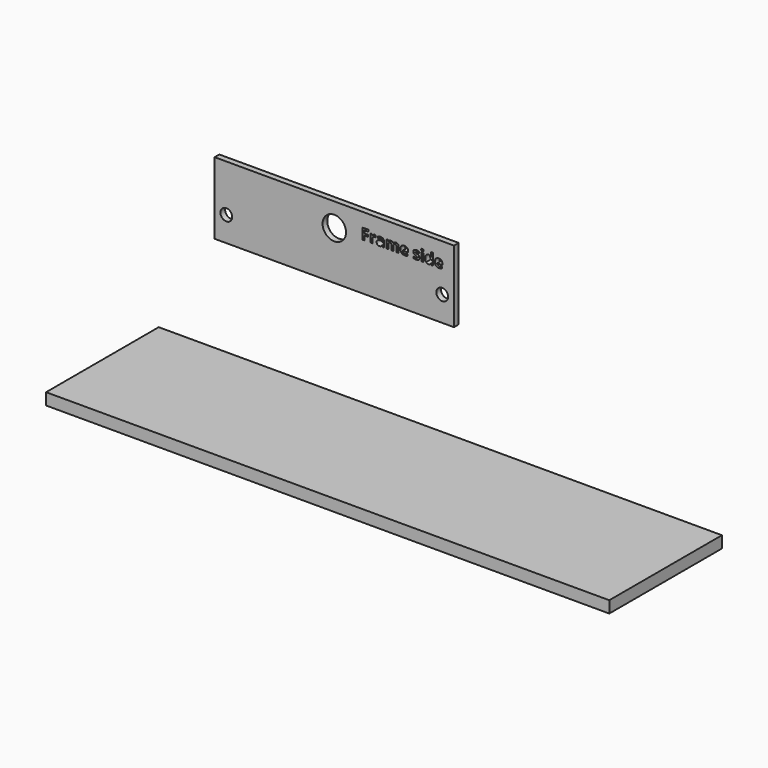
from build123d import *

# Parameters (mm, degrees)
F0_W     = 259.08
F0_H     = 77.7999210843
F0_R     = 6.35
F0_R_2   = 12.7
F0_W_2   = 2.4221705349
F0_H_2   = 8.8804447522
F1_DEPTH = 6.35
F2_W     = 609.6
F2_H     = 12.7
F3_DEPTH = 152.4


with BuildPart() as f1:
    # F0 (on Front) → F1 (new body)
    with BuildSketch(Plane.XZ):
        with Locations((35.36564756, 38.8999605422)):
            Rectangle(F0_W, F0_H)
        with Locations((-81.47435244, 26.9999210843)):
            Circle(F0_R, mode=Mode.SUBTRACT)
        with Locations((152.20564756, 26.9999210843)):
            Circle(F0_R, mode=Mode.SUBTRACT)
        with Locations((35.36564756, 52.3999210843)):
            Circle(F0_R_2, mode=Mode.SUBTRACT)
        with BuildLine():
            add(Edge.make_bspline(
                [(77.8315664183, 59.8184322771), (78.5343262849, 60.2746543243), (79.3603550612, 60.2746543243)],
                knots=[0, 0, 0, 1, 1, 1], degree=2))
            add(Edge.make_bspline(
                [(79.3603550612, 60.2746543243), (79.8534307, 60.2746543243), (80.1787589565, 60.2034887682)],
                knots=[0, 0, 0, 1, 1, 1], degree=2))
            Line((80.1787589565, 60.2034887682), (79.9957618122, 57.9338158536))
            add(Edge.make_bspline(
                [(79.9957618122, 57.9338158536), (79.7009330797, 58.0126062907), (79.2815646241, 58.0126062907)],
                knots=[0, 0, 0, 1, 1, 1], degree=2))
            add(Edge.make_bspline(
                [(79.2815646241, 58.0126062907), (78.1225827102, 58.0126062907), (77.4744678242, 57.4165947583)],
                knots=[0, 0, 0, 1, 1, 1], degree=2))
            add(Edge.make_bspline(
                [(77.4744678242, 57.4165947583), (76.8263529381, 56.8205832258), (76.8263529381, 55.7480166301)],
                knots=[0, 0, 0, 1, 1, 1], degree=2))
            Line((76.8263529381, 55.7480166301), (76.8263529381, 51.2290038168))
            Line((76.8263529381, 51.2290038168), (74.4041824033, 51.2290038168))
            Line((74.4041824033, 51.2290038168), (74.4041824033, 60.1094485691))
            Line((74.4041824033, 60.1094485691), (76.2392371002, 60.1094485691))
            Line((76.2392371002, 60.1094485691), (76.5976065078, 58.6149718907))
            Line((76.5976065078, 58.6149718907), (76.71452135, 58.6149718907))
            add(Edge.make_bspline(
                [(76.71452135, 58.6149718907), (77.1288065516, 59.3622102299), (77.8315664183, 59.8184322771)],
                knots=[0, 0, 0, 1, 1, 1], degree=2))
        make_face(mode=Mode.SUBTRACT)
        Polygon((68.0882392982, 55.8191821862), (68.0882392982, 51.2290038168), (65.6660687633, 51.2290038168), (65.6660687633, 62.8416975984), (72.3225898869, 62.8416975984), (72.3225898869, 60.8236457572), (68.0882392982, 60.8236457572), (68.0882392982, 57.8296091464), (72.0277611545, 57.8296091464), (72.0277611545, 55.8191821862), align=None, mode=Mode.SUBTRACT)
        with BuildLine():
            Line((89.1202027568, 51.2290038168), (87.4300207991, 51.2290038168))
            Line((87.4300207991, 51.2290038168), (86.9598198034, 52.4362766438))
            Line((86.9598198034, 52.4362766438), (86.8962791283, 52.4362766438))
            add(Edge.make_bspline(
                [(86.8962791283, 52.4362766438), (86.2862886473, 51.6661636615), (85.6381737613, 51.3675224886)],
                knots=[0, 0, 0, 1, 1, 1], degree=2))
            add(Edge.make_bspline(
                [(85.6381737613, 51.3675224886), (84.9900588752, 51.0688813156), (83.9505334306, 51.0688813156)],
                knots=[0, 0, 0, 1, 1, 1], degree=2))
            add(Edge.make_bspline(
                [(83.9505334306, 51.0688813156), (82.6720950475, 51.0688813156), (81.9375648433, 51.8008698928)],
                knots=[0, 0, 0, 1, 1, 1], degree=2))
            add(Edge.make_bspline(
                [(81.9375648433, 51.8008698928), (81.2030346392, 52.5328584699), (81.2030346392, 53.8824624091)],
                knots=[0, 0, 0, 1, 1, 1], degree=2))
            add(Edge.make_bspline(
                [(81.2030346392, 53.8824624091), (81.2030346392, 55.2956070234), (82.1917275437, 55.9665965524)],
                knots=[0, 0, 0, 1, 1, 1], degree=2))
            add(Edge.make_bspline(
                [(82.1917275437, 55.9665965524), (83.1804204483, 56.6375860815), (85.1730560195, 56.7087516376)],
                knots=[0, 0, 0, 1, 1, 1], degree=2))
            Line((85.1730560195, 56.7087516376), (86.715823611, 56.7570425507))
            Line((86.715823611, 56.7570425507), (86.715823611, 57.1459114823))
            add(Edge.make_bspline(
                [(86.715823611, 57.1459114823), (86.715823611, 58.4955154215), (85.3331785208, 58.4955154215)],
                knots=[0, 0, 0, 1, 1, 1], degree=2))
            add(Edge.make_bspline(
                [(85.3331785208, 58.4955154215), (84.2682368061, 58.4955154215), (82.8296759218, 57.8524837894)],
                knots=[0, 0, 0, 1, 1, 1], degree=2))
            Line((82.8296759218, 57.8524837894), (82.0290634155, 59.4892915801))
            add(Edge.make_bspline(
                [(82.0290634155, 59.4892915801), (83.5616644989, 60.2924457134), (85.4272187199, 60.2924457134)],
                knots=[0, 0, 0, 1, 1, 1], degree=2))
            add(Edge.make_bspline(
                [(85.4272187199, 60.2924457134), (87.2139825038, 60.2924457134), (88.1670926303, 59.5134370366)],
                knots=[0, 0, 0, 1, 1, 1], degree=2))
            add(Edge.make_bspline(
                [(88.1670926303, 59.5134370366), (89.1202027568, 58.7344283599), (89.1202027568, 57.1459114823)],
                knots=[0, 0, 0, 1, 1, 1], degree=2))
            Line((89.1202027568, 57.1459114823), (89.1202027568, 51.2290038168))
        make_face(mode=Mode.SUBTRACT)
        with BuildLine():
            Line((99.5662897436, 55.684475955), (99.5662897436, 51.2290038168))
            Line((99.5662897436, 51.2290038168), (97.1441192087, 51.2290038168))
            Line((97.1441192087, 51.2290038168), (97.1441192087, 56.4164645321))
            add(Edge.make_bspline(
                [(97.1441192087, 56.4164645321), (97.1441192087, 57.3771995397), (96.8226033927, 57.8575670435)],
                knots=[0, 0, 0, 1, 1, 1], degree=2))
            add(Edge.make_bspline(
                [(96.8226033927, 57.8575670435), (96.5010875766, 58.3379345472), (95.8097650315, 58.3379345472)],
                knots=[0, 0, 0, 1, 1, 1], degree=2))
            add(Edge.make_bspline(
                [(95.8097650315, 58.3379345472), (94.8795295481, 58.3379345472), (94.4588902789, 57.6542368831)],
                knots=[0, 0, 0, 1, 1, 1], degree=2))
            add(Edge.make_bspline(
                [(94.4588902789, 57.6542368831), (94.0382510097, 56.970539219), (94.0382510097, 55.4074386115)],
                knots=[0, 0, 0, 1, 1, 1], degree=2))
            Line((94.0382510097, 55.4074386115), (94.0382510097, 51.2290038168))
            Line((94.0382510097, 51.2290038168), (91.6160804748, 51.2290038168))
            Line((91.6160804748, 51.2290038168), (91.6160804748, 60.1094485691))
            Line((91.6160804748, 60.1094485691), (93.4663849338, 60.1094485691))
            Line((93.4663849338, 60.1094485691), (93.7917131903, 58.9733412982))
            Line((93.7917131903, 58.9733412982), (93.9264194215, 58.9733412982))
            add(Edge.make_bspline(
                [(93.9264194215, 58.9733412982), (94.2847888291, 59.5858734062), (94.9595907987, 59.9302638653)],
                knots=[0, 0, 0, 1, 1, 1], degree=2))
            add(Edge.make_bspline(
                [(94.9595907987, 59.9302638653), (95.6343927683, 60.2746543243), (96.5087124577, 60.2746543243)],
                knots=[0, 0, 0, 1, 1, 1], degree=2))
            add(Edge.make_bspline(
                [(96.5087124577, 60.2746543243), (98.5013480289, 60.2746543243), (99.210461963, 58.9733412982)],
                knots=[0, 0, 0, 1, 1, 1], degree=2))
            Line((99.210461963, 58.9733412982), (99.4239586313, 58.9733412982))
            add(Edge.make_bspline(
                [(99.4239586313, 58.9733412982), (99.7823280389, 59.5934982872), (100.476192211, 59.9340763058)],
                knots=[0, 0, 0, 1, 1, 1], degree=2))
            add(Edge.make_bspline(
                [(100.476192211, 59.9340763058), (101.1700563831, 60.2746543243), (102.0443760725, 60.2746543243)],
                knots=[0, 0, 0, 1, 1, 1], degree=2))
            add(Edge.make_bspline(
                [(102.0443760725, 60.2746543243), (103.5541025129, 60.2746543243), (104.3280279357, 59.5007289016)],
                knots=[0, 0, 0, 1, 1, 1], degree=2))
            add(Edge.make_bspline(
                [(104.3280279357, 59.5007289016), (105.1019533584, 58.7268034788), (105.1019533584, 57.0188301321)],
                knots=[0, 0, 0, 1, 1, 1], degree=2))
            Line((105.1019533584, 57.0188301321), (105.1019533584, 51.2290038168))
            Line((105.1019533584, 51.2290038168), (102.6721579425, 51.2290038168))
            Line((102.6721579425, 51.2290038168), (102.6721579425, 56.4164645321))
            add(Edge.make_bspline(
                [(102.6721579425, 56.4164645321), (102.6721579425, 57.3771995397), (102.3506421265, 57.8575670435)],
                knots=[0, 0, 0, 1, 1, 1], degree=2))
            add(Edge.make_bspline(
                [(102.3506421265, 57.8575670435), (102.0291263105, 58.3379345472), (101.3378037654, 58.3379345472)],
                knots=[0, 0, 0, 1, 1, 1], degree=2))
            add(Edge.make_bspline(
                [(101.3378037654, 58.3379345472), (100.448234314, 58.3379345472), (100.0072620288, 57.7025277962)],
                knots=[0, 0, 0, 1, 1, 1], degree=2))
            add(Edge.make_bspline(
                [(100.0072620288, 57.7025277962), (99.5662897436, 57.0671210452), (99.5662897436, 55.684475955)],
                knots=[0, 0, 0, 1, 1, 1], degree=2))
        make_face(mode=Mode.SUBTRACT)
        with BuildLine():
            add(Edge.make_bspline(
                [(113.3698660027, 51.2239205628), (112.6480439335, 51.0688813156), (111.6059768618, 51.0688813156)],
                knots=[0, 0, 0, 1, 1, 1], degree=2))
            add(Edge.make_bspline(
                [(111.6059768618, 51.0688813156), (109.4633852974, 51.0688813156), (108.2561124705, 52.2532794995)],
                knots=[0, 0, 0, 1, 1, 1], degree=2))
            add(Edge.make_bspline(
                [(108.2561124705, 52.2532794995), (107.0488396435, 53.4376776834), (107.0488396435, 55.6056855179)],
                knots=[0, 0, 0, 1, 1, 1], degree=2))
            add(Edge.make_bspline(
                [(107.0488396435, 55.6056855179), (107.0488396435, 57.8372340274), (108.1646138983, 59.0559441759)],
                knots=[0, 0, 0, 1, 1, 1], degree=2))
            add(Edge.make_bspline(
                [(108.1646138983, 59.0559441759), (109.2803881531, 60.2746543243), (111.2501490813, 60.2746543243)],
                knots=[0, 0, 0, 1, 1, 1], degree=2))
            add(Edge.make_bspline(
                [(111.2501490813, 60.2746543243), (113.1309530643, 60.2746543243), (114.1793742035, 59.2033585421)],
                knots=[0, 0, 0, 1, 1, 1], degree=2))
            add(Edge.make_bspline(
                [(114.1793742035, 59.2033585421), (115.2277953426, 58.1320627599), (115.2277953426, 56.2410922689)],
                knots=[0, 0, 0, 1, 1, 1], degree=2))
            Line((115.2277953426, 56.2410922689), (115.2277953426, 55.064318966))
            Line((115.2277953426, 55.064318966), (109.5015097025, 55.064318966))
            add(Edge.make_bspline(
                [(109.5015097025, 55.064318966), (109.5421757345, 54.0324184023), (110.1140418104, 53.4529274454)],
                knots=[0, 0, 0, 1, 1, 1], degree=2))
            add(Edge.make_bspline(
                [(110.1140418104, 53.4529274454), (110.6859078864, 52.8734364885), (111.71780845, 52.8734364885)],
                knots=[0, 0, 0, 1, 1, 1], degree=2))
            add(Edge.make_bspline(
                [(111.71780845, 52.8734364885), (112.5209625833, 52.8734364885), (113.2351597714, 53.0399130572)],
                knots=[0, 0, 0, 1, 1, 1], degree=2))
            add(Edge.make_bspline(
                [(113.2351597714, 53.0399130572), (113.9493569596, 53.206389626), (114.7270948228, 53.5723839146)],
                knots=[0, 0, 0, 1, 1, 1], degree=2))
            Line((114.7270948228, 53.5723839146), (114.7270948228, 51.6966631856))
            add(Edge.make_bspline(
                [(114.7270948228, 51.6966631856), (114.0916880718, 51.3789598101), (113.3698660027, 51.2239205628)],
                knots=[0, 0, 0, 1, 1, 1], degree=2))
        make_face(mode=Mode.SUBTRACT)
        with BuildLine():
            add(Edge.make_bspline(
                [(127.3894805571, 55.0020491044), (127.6207686145, 54.5254940411), (127.6207686145, 53.8672126471)],
                knots=[0, 0, 0, 1, 1, 1], degree=2))
            add(Edge.make_bspline(
                [(127.6207686145, 53.8672126471), (127.6207686145, 52.4998173189), (126.6714709285, 51.7843493172)],
                knots=[0, 0, 0, 1, 1, 1], degree=2))
            add(Edge.make_bspline(
                [(126.6714709285, 51.7843493172), (125.7221732424, 51.0688813156), (123.8312027514, 51.0688813156)],
                knots=[0, 0, 0, 1, 1, 1], degree=2))
            add(Edge.make_bspline(
                [(123.8312027514, 51.0688813156), (122.8628428629, 51.0688813156), (122.1791451988, 51.2010459198)],
                knots=[0, 0, 0, 1, 1, 1], degree=2))
            add(Edge.make_bspline(
                [(122.1791451988, 51.2010459198), (121.4954475347, 51.333210524), (120.9007068157, 51.5873732244)],
                knots=[0, 0, 0, 1, 1, 1], degree=2))
            Line((120.9007068157, 51.5873732244), (120.9007068157, 53.5876336766))
            add(Edge.make_bspline(
                [(120.9007068157, 53.5876336766), (121.5742379718, 53.2699303011), (122.4205997642, 53.0551628193)],
                knots=[0, 0, 0, 1, 1, 1], degree=2))
            add(Edge.make_bspline(
                [(122.4205997642, 53.0551628193), (123.2669615565, 52.8403953374), (123.9099931885, 52.8403953374)],
                knots=[0, 0, 0, 1, 1, 1], degree=2))
            add(Edge.make_bspline(
                [(123.9099931885, 52.8403953374), (125.2290976037, 52.8403953374), (125.2290976037, 53.6028834386)],
                knots=[0, 0, 0, 1, 1, 1], degree=2))
            add(Edge.make_bspline(
                [(125.2290976037, 53.6028834386), (125.2290976037, 53.8900872901), (125.0537253404, 54.0692719939)],
                knots=[0, 0, 0, 1, 1, 1], degree=2))
            add(Edge.make_bspline(
                [(125.0537253404, 54.0692719939), (124.8783530771, 54.2484566977), (124.4500889269, 54.474661501)],
                knots=[0, 0, 0, 1, 1, 1], degree=2))
            add(Edge.make_bspline(
                [(124.4500889269, 54.474661501), (124.0218247767, 54.7008663044), (123.3076275886, 55.0007782909)],
                knots=[0, 0, 0, 1, 1, 1], degree=2))
            add(Edge.make_bspline(
                [(123.3076275886, 55.0007782909), (122.2833519059, 55.4303132546), (121.8017135887, 55.7963075432)],
                knots=[0, 0, 0, 1, 1, 1], degree=2))
            add(Edge.make_bspline(
                [(121.8017135887, 55.7963075432), (121.3200752714, 56.1623018317), (121.1027661625, 56.6350444545)],
                knots=[0, 0, 0, 1, 1, 1], degree=2))
            add(Edge.make_bspline(
                [(121.1027661625, 56.6350444545), (120.8854570537, 57.1077870773), (120.8854570537, 57.7965679954)],
                knots=[0, 0, 0, 1, 1, 1], degree=2))
            add(Edge.make_bspline(
                [(120.8854570537, 57.7965679954), (120.8854570537, 58.9809661793), (121.8017135887, 59.6278102518)],
                knots=[0, 0, 0, 1, 1, 1], degree=2))
            add(Edge.make_bspline(
                [(121.8017135887, 59.6278102518), (122.7179701236, 60.2746543243), (124.4030688273, 60.2746543243)],
                knots=[0, 0, 0, 1, 1, 1], degree=2))
            add(Edge.make_bspline(
                [(124.4030688273, 60.2746543243), (126.0068354669, 60.2746543243), (127.5241867883, 59.5757068982)],
                knots=[0, 0, 0, 1, 1, 1], degree=2))
            Line((127.5241867883, 59.5757068982), (126.7947398382, 57.8296091464))
            add(Edge.make_bspline(
                [(126.7947398382, 57.8296091464), (126.1262919361, 58.1142713709), (125.5468009792, 58.2972685152)],
                knots=[0, 0, 0, 1, 1, 1], degree=2))
            add(Edge.make_bspline(
                [(125.5468009792, 58.2972685152), (124.9673100222, 58.4802656595), (124.3624027953, 58.4802656595)],
                knots=[0, 0, 0, 1, 1, 1], degree=2))
            add(Edge.make_bspline(
                [(124.3624027953, 58.4802656595), (123.2898361995, 58.4802656595), (123.2898361995, 57.9007747025)],
                knots=[0, 0, 0, 1, 1, 1], degree=2))
            add(Edge.make_bspline(
                [(123.2898361995, 57.9007747025), (123.2898361995, 57.575446446), (123.6354974721, 57.3365335076)],
                knots=[0, 0, 0, 1, 1, 1], degree=2))
            add(Edge.make_bspline(
                [(123.6354974721, 57.3365335076), (123.9811587447, 57.0976205692), (125.1503071665, 56.6299612005)],
                knots=[0, 0, 0, 1, 1, 1], degree=2))
            add(Edge.make_bspline(
                [(125.1503071665, 56.6299612005), (126.1898326112, 56.2080511178), (126.6740125555, 55.8433276427)],
                knots=[0, 0, 0, 1, 1, 1], degree=2))
            add(Edge.make_bspline(
                [(126.6740125555, 55.8433276427), (127.1581924997, 55.4786041676), (127.3894805571, 55.0020491044)],
                knots=[0, 0, 0, 1, 1, 1], degree=2))
        make_face(mode=Mode.SUBTRACT)
        with Locations((130.7202827459, 55.669226193)):
            Rectangle(F0_W_2, F0_H_2, mode=Mode.SUBTRACT)
        with BuildLine():
            add(Edge.make_bspline(
                [(150.5487858182, 51.2239205628), (149.826963749, 51.0688813156), (148.7848966774, 51.0688813156)],
                knots=[0, 0, 0, 1, 1, 1], degree=2))
            add(Edge.make_bspline(
                [(148.7848966774, 51.0688813156), (146.6423051129, 51.0688813156), (145.435032286, 52.2532794995)],
                knots=[0, 0, 0, 1, 1, 1], degree=2))
            add(Edge.make_bspline(
                [(145.435032286, 52.2532794995), (144.2277594591, 53.4376776834), (144.2277594591, 55.6056855179)],
                knots=[0, 0, 0, 1, 1, 1], degree=2))
            add(Edge.make_bspline(
                [(144.2277594591, 55.6056855179), (144.2277594591, 57.8372340274), (145.3435337139, 59.0559441759)],
                knots=[0, 0, 0, 1, 1, 1], degree=2))
            add(Edge.make_bspline(
                [(145.3435337139, 59.0559441759), (146.4593079686, 60.2746543243), (148.4290688968, 60.2746543243)],
                knots=[0, 0, 0, 1, 1, 1], degree=2))
            add(Edge.make_bspline(
                [(148.4290688968, 60.2746543243), (150.3098728798, 60.2746543243), (151.358294019, 59.2033585421)],
                knots=[0, 0, 0, 1, 1, 1], degree=2))
            add(Edge.make_bspline(
                [(151.358294019, 59.2033585421), (152.4067151582, 58.1320627599), (152.4067151582, 56.2410922689)],
                knots=[0, 0, 0, 1, 1, 1], degree=2))
            Line((152.4067151582, 56.2410922689), (152.4067151582, 55.064318966))
            Line((152.4067151582, 55.064318966), (146.680429518, 55.064318966))
            add(Edge.make_bspline(
                [(146.680429518, 55.064318966), (146.7210955501, 54.0324184023), (147.292961626, 53.4529274454)],
                knots=[0, 0, 0, 1, 1, 1], degree=2))
            add(Edge.make_bspline(
                [(147.292961626, 53.4529274454), (147.8648277019, 52.8734364885), (148.8967282656, 52.8734364885)],
                knots=[0, 0, 0, 1, 1, 1], degree=2))
            add(Edge.make_bspline(
                [(148.8967282656, 52.8734364885), (149.6998823988, 52.8734364885), (150.414079587, 53.0399130572)],
                knots=[0, 0, 0, 1, 1, 1], degree=2))
            add(Edge.make_bspline(
                [(150.414079587, 53.0399130572), (151.1282767751, 53.206389626), (151.9060146384, 53.5723839146)],
                knots=[0, 0, 0, 1, 1, 1], degree=2))
            Line((151.9060146384, 53.5723839146), (151.9060146384, 51.6966631856))
            add(Edge.make_bspline(
                [(151.9060146384, 51.6966631856), (151.2706078874, 51.3789598101), (150.5487858182, 51.2239205628)],
                knots=[0, 0, 0, 1, 1, 1], degree=2))
        make_face(mode=Mode.SUBTRACT)
        with BuildLine():
            add(Edge.make_bspline(
                [(139.802786845, 52.3803608497), (138.9767580687, 51.0688813156), (137.284034484, 51.0688813156)],
                knots=[0, 0, 0, 1, 1, 1], degree=2))
            add(Edge.make_bspline(
                [(137.284034484, 51.0688813156), (135.7209338765, 51.0688813156), (134.8275519845, 52.285049837)],
                knots=[0, 0, 0, 1, 1, 1], degree=2))
            add(Edge.make_bspline(
                [(134.8275519845, 52.285049837), (133.9341700926, 53.5012183585), (133.9341700926, 55.6539764309)],
                knots=[0, 0, 0, 1, 1, 1], degree=2))
            add(Edge.make_bspline(
                [(133.9341700926, 55.6539764309), (133.9341700926, 57.8372340274), (134.8428017465, 59.0559441759)],
                knots=[0, 0, 0, 1, 1, 1], degree=2))
            add(Edge.make_bspline(
                [(134.8428017465, 59.0559441759), (135.7514334005, 60.2746543243), (137.3475751591, 60.2746543243)],
                knots=[0, 0, 0, 1, 1, 1], degree=2))
            add(Edge.make_bspline(
                [(137.3475751591, 60.2746543243), (139.0250489817, 60.2746543243), (139.9069935522, 58.9733412982)],
                knots=[0, 0, 0, 1, 1, 1], degree=2))
            Line((139.9069935522, 58.9733412982), (139.9857839893, 58.9733412982))
            add(Edge.make_bspline(
                [(139.9857839893, 58.9733412982), (139.802786845, 59.9671174568), (139.802786845, 60.7448553201)],
                knots=[0, 0, 0, 1, 1, 1], degree=2))
            Line((139.802786845, 60.7448553201), (139.802786845, 63.5889359376))
            Line((139.802786845, 63.5889359376), (142.2325822609, 63.5889359376))
            Line((142.2325822609, 63.5889359376), (142.2325822609, 51.2290038168))
            Line((142.2325822609, 51.2290038168), (140.3746529209, 51.2290038168))
            Line((140.3746529209, 51.2290038168), (139.9069935522, 52.3803608497))
            Line((139.9069935522, 52.3803608497), (139.802786845, 52.3803608497))
        make_face(mode=Mode.SUBTRACT)
        with BuildLine():
            add(Edge.make_bspline(
                [(130.7240951865, 61.2125146888), (129.4049907713, 61.2125146888), (129.4049907713, 62.4045377537)],
                knots=[0, 0, 0, 1, 1, 1], degree=2))
            add(Edge.make_bspline(
                [(129.4049907713, 62.4045377537), (129.4049907713, 63.5889359376), (130.7240951865, 63.5889359376)],
                knots=[0, 0, 0, 1, 1, 1], degree=2))
            add(Edge.make_bspline(
                [(130.7240951865, 63.5889359376), (132.0431996016, 63.5889359376), (132.0431996016, 62.4045377537)],
                knots=[0, 0, 0, 1, 1, 1], degree=2))
            add(Edge.make_bspline(
                [(132.0431996016, 62.4045377537), (132.0431996016, 61.8402965588), (131.7140589045, 61.5264056238)],
                knots=[0, 0, 0, 1, 1, 1], degree=2))
            add(Edge.make_bspline(
                [(131.7140589045, 61.5264056238), (131.3849182075, 61.2125146888), (130.7240951865, 61.2125146888)],
                knots=[0, 0, 0, 1, 1, 1], degree=2))
        make_face(mode=Mode.SUBTRACT)
    extrude(amount=F1_DEPTH)


with BuildPart() as f3:
    # F2 (on Front) → F3 (new body)
    with BuildSketch(Plane.XZ):
        with Locations((145.059297769, -114.4546382129)):
            Rectangle(F2_W, F2_H)
    extrude(amount=F3_DEPTH)


solid = Compound([f1.part, f3.part])
